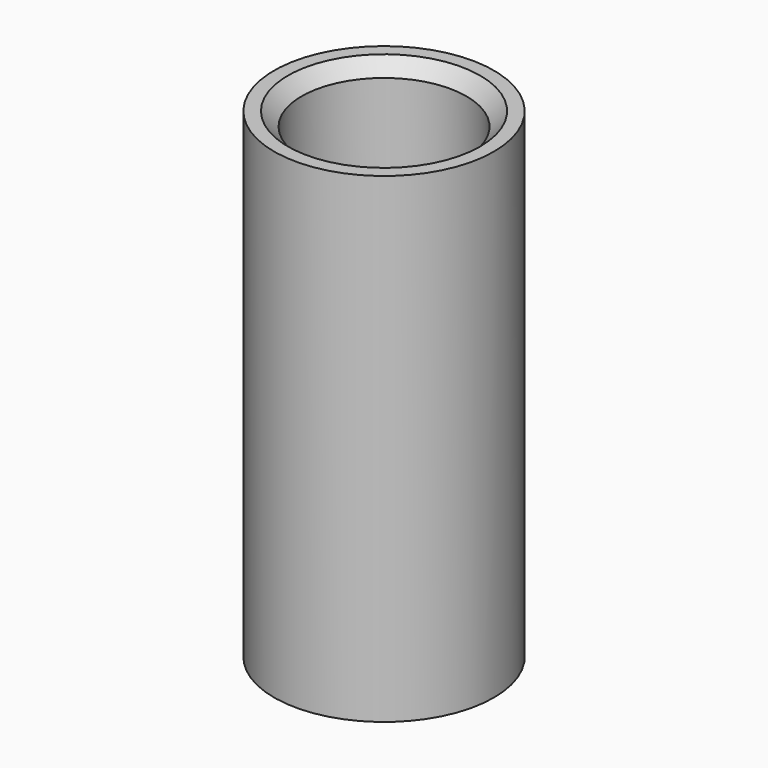
from build123d import *

# Parameters (mm, degrees)
SKETCH_R        = 8
PAD_DEPTH       = 35
SKETCH001_R     = 5
POCKET_DEPTH    = 35.001
SKETCH002_R     = 6
POCKET001_DEPTH = 15
SKETCH003_R     = 6
POCKET002_DEPTH = 15
CHAMFER_SIZE    = 0.9
CHAMFER001_SIZE = 1


with BuildPart() as part:
    # Sketch → Pad (new body)
    with BuildSketch(Plane.XY):
        Circle(SKETCH_R)
    extrude(amount=PAD_DEPTH)

    # Sketch001 (on Face3 of Pad) → Pocket (cut, through all)
    with BuildSketch(Plane.XY.offset(35)):
        Circle(SKETCH001_R)
    extrude(amount=-POCKET_DEPTH, mode=Mode.SUBTRACT)

    # Sketch002 (on Face3 of Pocket) → Pocket001 (cut)
    with BuildSketch(Plane.XY.offset(35)):
        Circle(SKETCH002_R)
    extrude(amount=-POCKET001_DEPTH, mode=Mode.SUBTRACT)

    # Sketch003 (on Face2 of Pocket001) → Pocket002 (cut)
    with BuildSketch(Plane(origin=(0, 0, 0), x_dir=(1, 0, 0), z_dir=(0, 0, -1))):
        Circle(SKETCH003_R)
    extrude(amount=-POCKET002_DEPTH, mode=Mode.SUBTRACT)

    # Chamfer
    chamfer_edges = [part.edges().sort_by_distance(p)[0] for p in [
        (-5, 0, 15),
        (-5, 0, 20),
    ]]
    chamfer(chamfer_edges, length=CHAMFER_SIZE)

    # Chamfer001
    chamfer001_edges = [part.edges().sort_by_distance(p)[0] for p in [
        (-6, 0, 0),
        (-6, 0, 35),
    ]]
    chamfer(chamfer001_edges, length=CHAMFER001_SIZE)


solid = part.part
